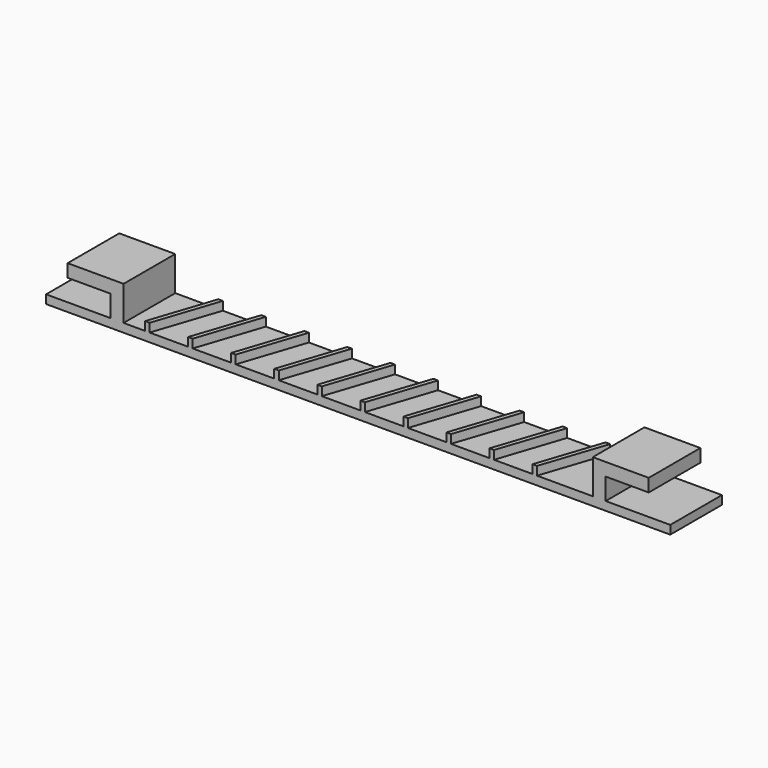
from build123d import *

# Parameters (mm, degrees)
F0_W     = 145
F0_H     = 15
F1_DEPTH = 2
F3_DEPTH = 15
F5_DEPTH = 2


with BuildPart() as f1:
    # F0 (on Top) → F1 (new body)
    with BuildSketch(Plane.XY):
        Rectangle(F0_W, F0_H)
    extrude(amount=F1_DEPTH)

    # F2 (on face) → F3 (join, through all)
    with BuildSketch(Plane.XZ.offset(7.5)):
        Polygon((-57.5, 7), (-57.5, 2), (-54.5, 2), (-54.5, 10), (-67.5, 10), (-67.5, 7), align=None)
        Polygon((57.5, 7), (67.5, 7), (67.5, 10), (54.5, 10), (54.5, 2), (57.5, 2), align=None)
    extrude(amount=-F3_DEPTH)

    # F4 (on face) → F5 (join)
    with BuildSketch(Plane.XY.offset(2)):
        Polygon((-44.5, 7.5), (-49.5, -7.5), (-48.445907, -7.5), (-43.445907, 7.5), align=None)
        Polygon((-34.5, 7.5), (-39.5, -7.5), (-38.445907, -7.5), (-33.445907, 7.5), align=None)
        Polygon((-24.5, 7.5), (-29.5, -7.5), (-28.445907, -7.5), (-23.445907, 7.5), align=None)
        Polygon((-14.5, 7.5), (-19.5, -7.5), (-18.445907, -7.5), (-13.445907, 7.5), align=None)
        Polygon((-4.5, 7.5), (-9.5, -7.5), (-8.445907, -7.5), (-3.445907, 7.5), align=None)
        Polygon((5.5, 7.5), (0.5, -7.5), (1.554093, -7.5), (6.554093, 7.5), align=None)
        Polygon((15.5, 7.5), (10.5, -7.5), (11.554093, -7.5), (16.554093, 7.5), align=None)
        Polygon((25.5, 7.5), (20.5, -7.5), (21.554093, -7.5), (26.554093, 7.5), align=None)
        Polygon((35.5, 7.5), (30.5, -7.5), (31.554093, -7.5), (36.554093, 7.5), align=None)
        Polygon((45.5, 7.5), (40.5, -7.5), (41.554093, -7.5), (46.554093, 7.5), align=None)
    extrude(amount=F5_DEPTH)


solid = f1.part
